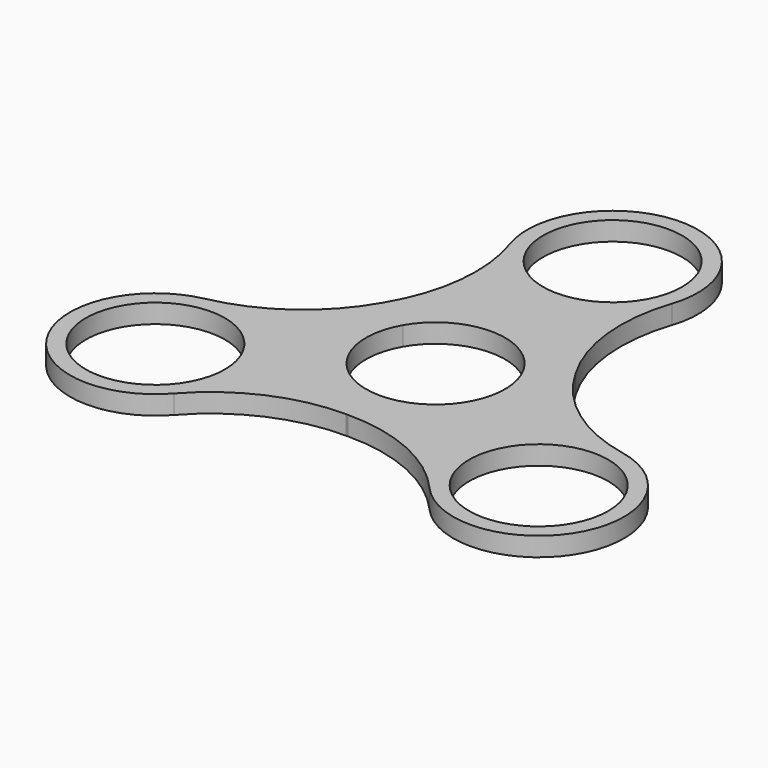
from build123d import *

# Parameters (mm, degrees)
F0_R     = 11
F1_DEPTH = 3


with BuildPart() as f1:
    # F0 (on Top) → F1 (new body)
    with BuildSketch(Plane.XY):
        with BuildLine():
            ThreePointArc((15.224018, 8.630137), (15.18985, 8.690136), (15.155445, 8.75))
            ThreePointArc((15.155445, 8.75), (15.120804, 8.809728), (15.085927, 8.869318))
            ThreePointArc((15.085927, 8.869318), (11.574062, 19.543722), (12.801487, 30.71375))
            ThreePointArc((12.801487, 30.71375), (0, 48.5), (-12.801487, 30.71375))
            ThreePointArc((-12.801487, 30.71375), (-11.574062, 19.543722), (-15.085927, 8.869318))
            ThreePointArc((-15.085927, 8.869318), (-15.120804, 8.809728), (-15.155445, 8.75))
            ThreePointArc((-15.155445, 8.75), (-15.18985, 8.690136), (-15.224018, 8.630137))
            ThreePointArc((-15.224018, 8.630137), (-22.712391, 0.25157), (-32.999631, -4.270462))
            ThreePointArc((-32.999631, -4.270462), (-42.002232, -24.25), (-20.198144, -26.443288))
            ThreePointArc((-20.198144, -26.443288), (-11.138329, -19.795292), (-0.138091, -17.499455))
            ThreePointArc((-0.138091, -17.499455), (-0.069046, -17.499864), (0, -17.5))
            ThreePointArc((0, -17.5), (0.069046, -17.499864), (0.138091, -17.499455))
            ThreePointArc((0.138091, -17.499455), (11.138329, -19.795292), (20.198144, -26.443288))
            ThreePointArc((20.198144, -26.443288), (42.002232, -24.25), (32.999631, -4.270462))
            ThreePointArc((32.999631, -4.270462), (22.712391, 0.25157), (15.224018, 8.630137))
        make_face()
        with Locations((-30.310889, -17.5)):
            Circle(F0_R, mode=Mode.SUBTRACT)
        with Locations((30.310889, -17.5)):
            Circle(F0_R, mode=Mode.SUBTRACT)
        with BuildLine():
            ThreePointArc((-9.526279, 5.5), (0, 11), (9.526279, 5.5))
            ThreePointArc((9.526279, 5.5), (9.526279, -5.5), (0, -11))
            ThreePointArc((0, -11), (-9.526279, -5.5), (-9.526279, 5.5))
        make_face(mode=Mode.SUBTRACT)
        with Locations((0, 35)):
            Circle(F0_R, mode=Mode.SUBTRACT)
    extrude(amount=F1_DEPTH)


solid = f1.part
